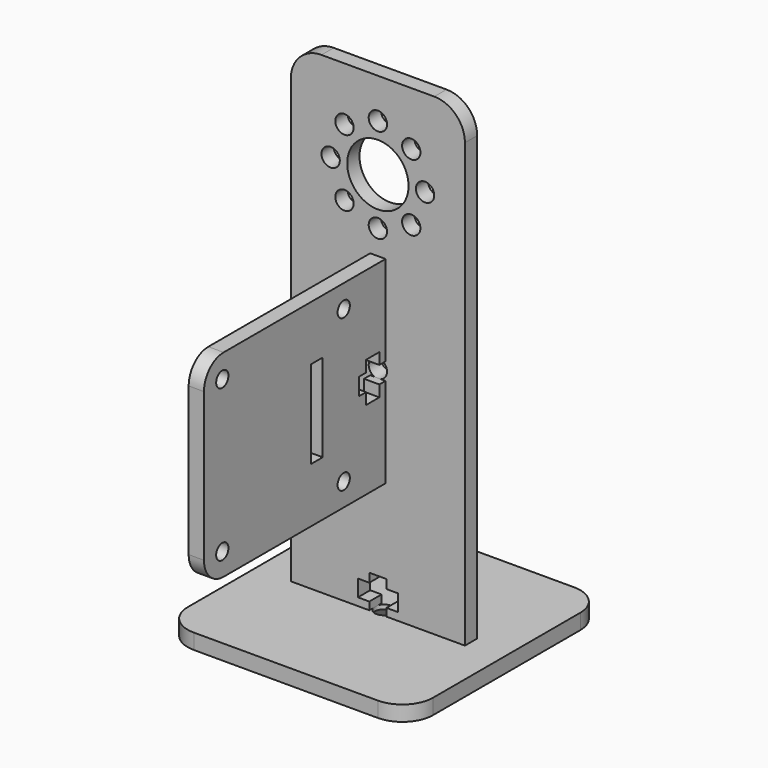
from build123d import *

# Parameters (mm, degrees)
F0_W            = 36.0553
F0_H            = 98.02765
F0_R            = 1.89865
F0_R_2          = 6.35
F1_DEPTH        = 3.175
F2_W            = 50.8
F2_H            = 50.8
F3_DEPTH        = 3.175
F4_W            = 12.0184333333
F4_H            = 3.175
F5_DEPTH        = 3.175
F8_R            = 1.89865
F9_DEPTH        = 3.175
F11_DEPTH       = 3.175
F12_D           = 3.7973
F12_CSINK_D     = 7.7978
F12_CSINK_ANGLE = 82
F13_R           = 6.35
F13_2_R         = 6.35
F14_W           = 3.175
F14_H           = 40.9067
F15_DEPTH       = 46.99
F16_R           = 1.5875
F16_W           = 3.048
F16_H           = 18.1864
F17_DEPTH       = 3.175
F18_W           = 3.175
F18_H           = 13.6355666667
F19_DEPTH       = 3.175
F22_R           = 1.89865
F23_DEPTH       = 3.175
F25_DEPTH       = 3.175
F26_R           = 5.08


with BuildPart() as f1:
    # F0 (on Front) → F1 (new body)
    with BuildSketch(Plane.XZ):
        with Locations((0, -30.986175)):
            Rectangle(F0_W, F0_H)
        with Locations((-6.9147972132, -6.9147972132)):
            Circle(F0_R, mode=Mode.SUBTRACT)
        with Locations((0, -9.779)):
            Circle(F0_R, mode=Mode.SUBTRACT)
        with Locations((-9.779, 0)):
            Circle(F0_R, mode=Mode.SUBTRACT)
        Circle(F0_R_2, mode=Mode.SUBTRACT)
        with Locations((-6.9147972132, 6.9147972132)):
            Circle(F0_R, mode=Mode.SUBTRACT)
        with Locations((0, 9.779)):
            Circle(F0_R, mode=Mode.SUBTRACT)
        with Locations((6.9147972132, -6.9147972132)):
            Circle(F0_R, mode=Mode.SUBTRACT)
        with Locations((6.9147972132, 6.9147972132)):
            Circle(F0_R, mode=Mode.SUBTRACT)
        with Locations((9.779, 0)):
            Circle(F0_R, mode=Mode.SUBTRACT)
    extrude(amount=F1_DEPTH)


with BuildPart() as f3:
    # F2 (on face) → F3 (new body)
    with BuildSketch(Plane(origin=(0, 0, -80), x_dir=(1, 0, 0), z_dir=(0, 0, -1))):
        with Locations((0, 1.5875)):
            Rectangle(F2_W, F2_H)
    extrude(amount=F3_DEPTH)


with BuildPart() as f5:
    # F4 (on face) → F5 (new body)
    with BuildSketch(Plane(origin=(0, 0, -80), x_dir=(1, 0, 0), z_dir=(0, 0, -1))):
        with Locations((-12.0184333333, 1.5875)):
            Rectangle(F4_W, F4_H)
    extrude(amount=F5_DEPTH)


with BuildPart() as f5b:
    # F4 (on face) → F5, piece 2 (new body)
    with BuildSketch(Plane(origin=(0, 0, -80), x_dir=(1, 0, 0), z_dir=(0, 0, -1))):
        with Locations((12.0184333333, 1.5875)):
            Rectangle(F4_W, F4_H)
    extrude(amount=F5_DEPTH)


with BuildPart() as f3_1:
    add(f3.part)

    # F6: cut F5b, F5
    add(f5b.part, mode=Mode.SUBTRACT)
    add(f5.part, mode=Mode.SUBTRACT)

    # F8 (on face) → F9 (cut, through all)
    with BuildSketch(Plane(origin=(0, 0, -83.175), x_dir=(1, 0, 0), z_dir=(0, 0, -1))):
        with Locations((0, 1.5875)):
            Circle(F8_R)
    extrude(amount=-F9_DEPTH, mode=Mode.SUBTRACT)

    # F12 (through all)
    with Locations(Plane(origin=(0, 0, -83.175), x_dir=(1, 0, 0), z_dir=(0, 0, -1))):
        with Locations((0, 1.5875)):
            CounterSinkHole(F12_D / 2, F12_CSINK_D / 2, counter_sink_angle=F12_CSINK_ANGLE)

    # F13
    f13_edges = [f3_1.edges().sort_by_distance(p)[0] for p in [
        (-25.4, -26.9875, -81.5875),
        (-25.4, 23.8125, -81.5875),
        (25.4, 23.8125, -81.5875),
        (25.4, -26.9875, -81.5875),
    ]]
    fillet(f13_edges, radius=F13_R)


with BuildPart() as f5_1:
    add(f5.part)

    # F7: union F5b, F1
    add(f5b.part)
    add(f1.part)

    # F10 (on face) → F11 (cut, through all)
    with BuildSketch(Plane.XZ.offset(3.175)):
        Polygon((1.778, -73.142), (0, -73.142), (-1.778, -73.142), (-1.778, -74.9708), (-4.1275, -74.9708), (-4.1275, -78.3998), (-1.778, -78.3998), (-1.778, -80), (0, -80), (1.778, -80), (1.778, -78.3998), (4.1275, -78.3998), (4.1275, -74.9708), (1.778, -74.9708), align=None)
    extrude(amount=-F11_DEPTH, mode=Mode.SUBTRACT)

    # F13#2
    f13_2_edges = [f5_1.edges().sort_by_distance(p)[0] for p in [
        (18.02765, -1.5875, 18.02765),
        (-18.02765, -1.5875, 18.02765),
    ]]
    fillet(f13_2_edges, radius=F13_2_R)


with BuildPart() as f15:
    # F14 (on face) → F15 (new body)
    with BuildSketch(Plane.XZ.offset(3.175)):
        with Locations((0, -35.306)):
            Rectangle(F14_W, F14_H)
    extrude(amount=F15_DEPTH)

    # F16 (on face) → F17 (cut, through all)
    with BuildSketch(Plane(origin=(-1.5875, 0, 0), x_dir=(0, -1, 0), z_dir=(-1, 0, 0))):
        with Locations((13.9954, -19.58975)):
            Circle(F16_R)
        with Locations((13.9954, -51.02225)):
            Circle(F16_R)
        with Locations((45.4279, -51.02225)):
            Circle(F16_R)
        with Locations((45.4279, -19.58975)):
            Circle(F16_R)
        with Locations((20.955, -35.306)):
            Rectangle(F16_W, F16_H)
    extrude(amount=-F17_DEPTH, mode=Mode.SUBTRACT)


with BuildPart() as f19:
    # F18 (on face) → F19 (new body)
    with BuildSketch(Plane(origin=(0, -3.175, 0), x_dir=(-1, 0, 0), z_dir=(0, 1, 0))):
        with Locations((0, -21.6704333333)):
            Rectangle(F18_W, F18_H)
    extrude(amount=F19_DEPTH)


with BuildPart() as f19b:
    # F18 (on face) → F19, piece 2 (new body)
    with BuildSketch(Plane(origin=(0, -3.175, 0), x_dir=(-1, 0, 0), z_dir=(0, 1, 0))):
        with Locations((0, -48.9415666667)):
            Rectangle(F18_W, F18_H)
    extrude(amount=F19_DEPTH)


with BuildPart() as f5_2:
    add(f5_1.part)

    # F20: cut F19b, F19
    add(f19b.part, mode=Mode.SUBTRACT)
    add(f19.part, mode=Mode.SUBTRACT)

    # F22 (on face) → F23 (cut, through all)
    with BuildSketch(Plane(origin=(0, 0, 0), x_dir=(-1, 0, 0), z_dir=(0, 1, 0))):
        with Locations((0, -35.306)):
            Circle(F22_R)
    extrude(amount=-F23_DEPTH, mode=Mode.SUBTRACT)


with BuildPart() as f19b_1:
    add(f19b.part)

    # F21: union F19, F15
    add(f19.part)
    add(f15.part)

    # F24 (on face) → F25 (cut, through all)
    with BuildSketch(Plane.YZ.offset(1.5875)):
        Polygon((-10.033, -33.528), (-10.033, -35.306), (-10.033, -37.084), (-8.2042, -37.084), (-8.2042, -39.4335), (-4.7752, -39.4335), (-4.7752, -37.084), (-3.175, -37.084), (-3.175, -35.306), (-3.175, -33.528), (-4.7752, -33.528), (-4.7752, -31.1785), (-8.2042, -31.1785), (-8.2042, -33.528), align=None)
    extrude(amount=-F25_DEPTH, mode=Mode.SUBTRACT)

    # F26
    f26_edges = [f19b_1.edges().sort_by_distance(p)[0] for p in [
        (0, -50.165, -55.75935),
        (0, -50.165, -14.85265),
    ]]
    fillet(f26_edges, radius=F26_R)


solid = Compound([f3_1.part, f5_2.part, f19b_1.part])
